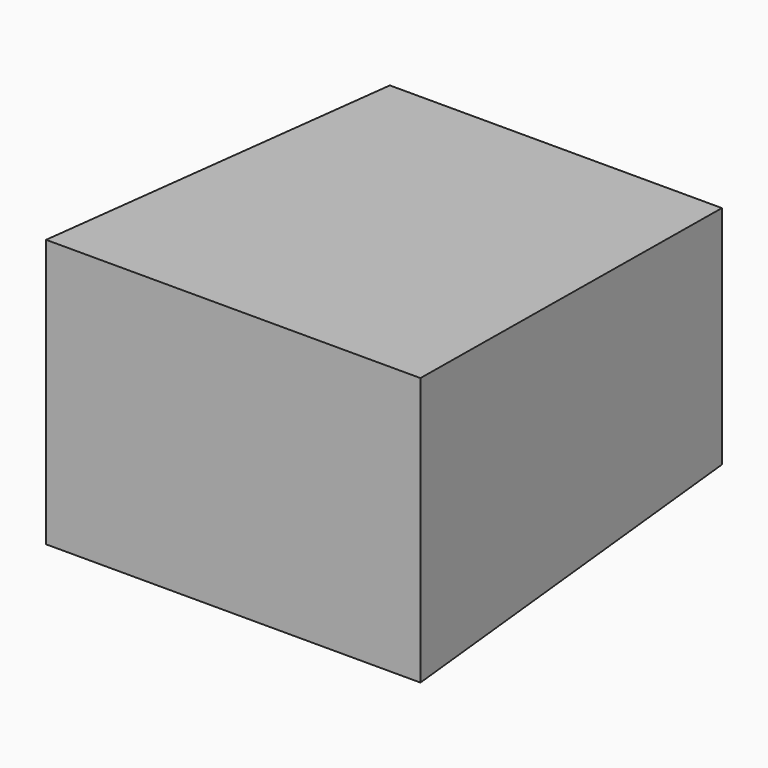
from build123d import *

# Parameters (mm, degrees)
F0_W     = 125
F0_H     = 85
F1_DEPTH = 151.8
F1_TAPER = -3


with BuildPart() as f1:
    # F0 (on Front) → F1 (new body)
    with BuildSketch(Plane.XZ):
        Rectangle(F0_W, F0_H)
    extrude(amount=F1_DEPTH, taper=F1_TAPER)


solid = f1.part
